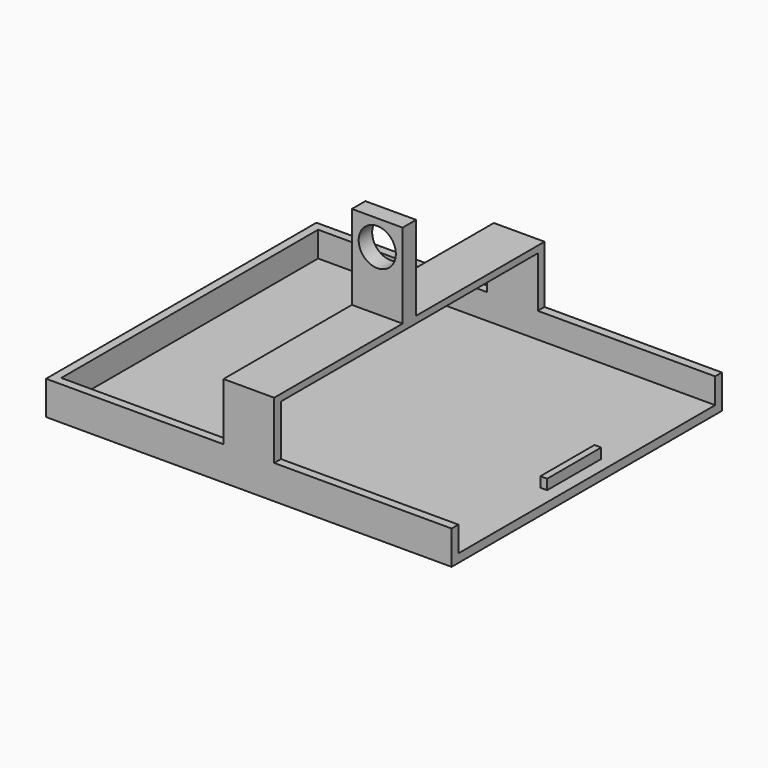
from build123d import *

# Parameters (mm, degrees)
F0_W      = 120
F0_H      = 100
F1_DEPTH  = 10
F2_T      = -2.5
F4_W      = 3
F4_H      = 95
F5_DEPTH  = 10
F6_W      = 15
F6_H      = 2.5
F7_DEPTH  = 15
F8_W      = 15
F8_H      = 2.5
F8_H_2    = 97.5
F9_DEPTH  = 2
F10_W     = 15
F10_H     = 5
F11_DEPTH = 25
F12_R     = 5.5
F13_DEPTH = 5
F4_W_2    = 2
F4_H_2    = 20
F14_DEPTH = 3


with BuildPart() as f1:
    # F0 (on Top) → F1 (new body)
    with BuildSketch(Plane.XY):
        Rectangle(F0_W, F0_H)
    extrude(amount=F1_DEPTH)

    # F2
    f2_openings = [f1.faces().sort_by_distance(p)[0] for p in [
        (0, 0, 10),
    ]]
    offset(amount=F2_T, openings=f2_openings)

    # F4 (on face) → F5 (cut)
    with BuildSketch(Plane.XY.offset(2.5)):
        with Locations((58.746465, 0)):
            Rectangle(F4_W, F4_H)
    extrude(amount=F5_DEPTH, mode=Mode.SUBTRACT)

    # F6 (on face) → F7 (join)
    with BuildSketch(Plane.XY.offset(10)):
        with Locations((0, -48.75)):
            Rectangle(F6_W, F6_H)
        with Locations((0, 48.75)):
            Rectangle(F6_W, F6_H)
    extrude(amount=F7_DEPTH)

    # F8 (on face) → F9 (join)
    with BuildSketch(Plane.XY.offset(25)):
        with Locations((0, -48.75)):
            Rectangle(F8_W, F8_H)
        with Locations((0, 1.25)):
            Rectangle(F8_W, F8_H_2)
    extrude(amount=F9_DEPTH)

    # F10 (on face) → F11 (join)
    with BuildSketch(Plane.XY.offset(27)):
        Rectangle(F10_W, F10_H)
    extrude(amount=F11_DEPTH)

    # F12 (on face) → F13 (cut, through all)
    with BuildSketch(Plane.XZ.offset(2.5)):
        with Locations((0, 44.5)):
            Circle(F12_R)
    extrude(amount=-F13_DEPTH, mode=Mode.SUBTRACT)

    # F4 (on face) → F14 (join)
    with BuildSketch(Plane.XY.offset(2.5)):
        with Locations((55.273231, 0)):
            Rectangle(F4_W_2, F4_H_2)
    extrude(amount=F14_DEPTH)


solid = f1.part
